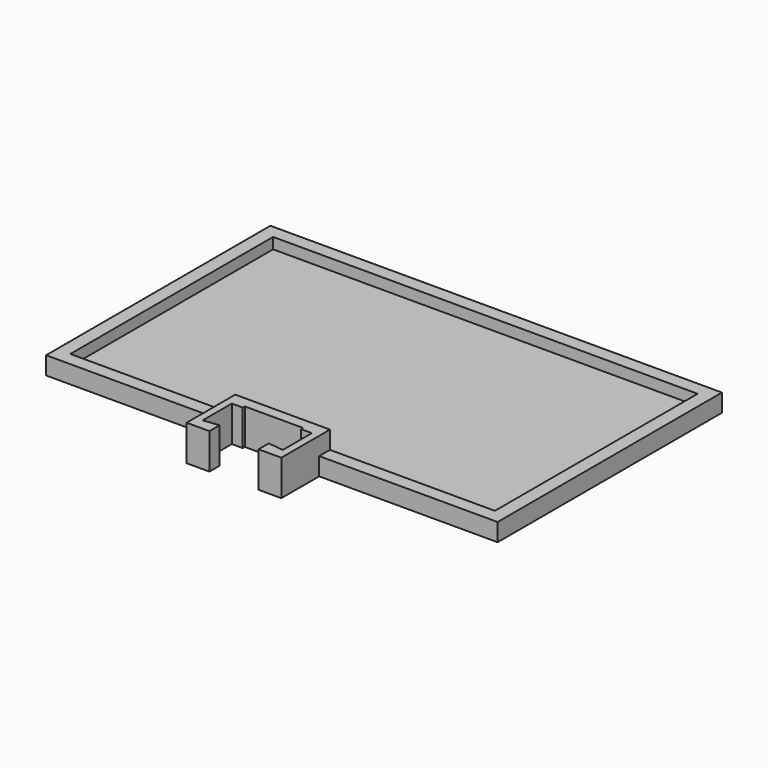
from build123d import *

# Parameters (mm, degrees)
F0_W     = 124
F0_H     = 77
F1_DEPTH = 4.9
F2_W     = 116.6
F2_H     = 69.6
F3_DEPTH = 3
F5_DEPTH = 9.8
F6_W     = 26
F6_H     = 3.7
F7_DEPTH = 4.9
F8_W     = 16
F8_H     = 0.7
F9_DEPTH = 25


with BuildPart() as f1:
    # F0 (on Top) → F1 (new body)
    with BuildSketch(Plane.XY):
        with Locations((62, 38.5)):
            Rectangle(F0_W, F0_H)
    extrude(amount=F1_DEPTH)

    # F2 (on face) → F3 (cut)
    with BuildSketch(Plane.XY.offset(4.9)):
        with Locations((62, 38.5)):
            Rectangle(F2_W, F2_H)
    extrude(amount=-F3_DEPTH, mode=Mode.SUBTRACT)

    # F4 (on Top) → F5 (join)
    with BuildSketch(Plane.XY):
        Polygon((51, -10), (51, 0), (49, 0), (49, -13), (55.25, -13), (55.25, -9.5), align=None)
        Polygon((68.75, -9.5), (68.75, -13), (75, -13), (75, 0), (73, 0), (73, -10), align=None)
    extrude(amount=F5_DEPTH)

    # F6 (on face) → F7 (join, through all)
    with BuildSketch(Plane.XY.offset(4.9)):
        with Locations((62, 1.85)):
            Rectangle(F6_W, F6_H)
    extrude(amount=F7_DEPTH)

    # F8 (on face) → F9 (cut)
    with BuildSketch(Plane.XY.offset(9.8)):
        with Locations((62, 0.35)):
            Rectangle(F8_W, F8_H)
    extrude(amount=-F9_DEPTH, mode=Mode.SUBTRACT)


solid = f1.part
